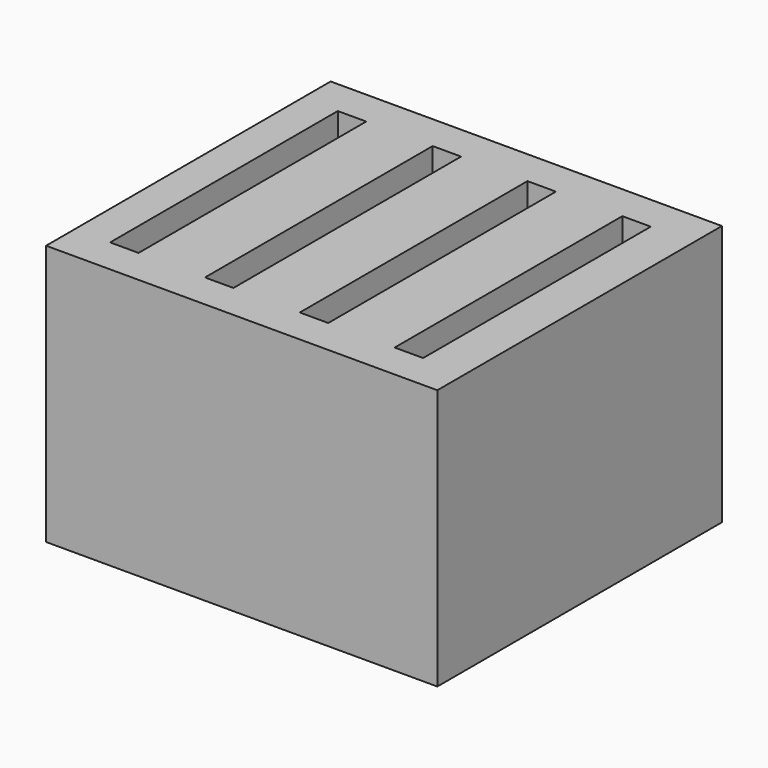
from build123d import *

# Parameters (mm, degrees)
BOX004_W     = 2.4
BOX004_H     = 24
BOX004_DEPTH = 22
BOX002_W     = 2.4
BOX002_H     = 24
BOX002_DEPTH = 22
BOX001_W     = 2.4
BOX001_H     = 24
BOX001_DEPTH = 22
BOX003_W     = 2.4
BOX003_H     = 24
BOX003_DEPTH = 22
BOX_W        = 33
BOX_H        = 30
BOX_DEPTH    = 22


with BuildPart() as cub004:
    # Box004 → Box004 (new body)
    with BuildSketch(Plane(origin=(24, 0, 0), x_dir=(1, 0, 0), z_dir=(0, 0, 1))):
        with Locations((1.2, 12)):
            Rectangle(BOX004_W, BOX004_H)
    extrude(amount=BOX004_DEPTH)


with BuildPart() as cub002:
    # Box002 → Box002 (new body)
    with BuildSketch(Plane(origin=(8, 0, 0), x_dir=(1, 0, 0), z_dir=(0, 0, 1))):
        with Locations((1.2, 12)):
            Rectangle(BOX002_W, BOX002_H)
    extrude(amount=BOX002_DEPTH)


with BuildPart() as fusion:
    # Box001 → Box001 (new body)
    with BuildSketch(Plane.XY):
        with Locations((1.2, 12)):
            Rectangle(BOX001_W, BOX001_H)
    extrude(amount=BOX001_DEPTH)

    # Fusion: union Cub002
    add(cub002.part)


with BuildPart() as fusion001:
    # Box003 → Box003 (new body)
    with BuildSketch(Plane(origin=(16, 0, 0), x_dir=(1, 0, 0), z_dir=(0, 0, 1))):
        with Locations((1.2, 12)):
            Rectangle(BOX003_W, BOX003_H)
    extrude(amount=BOX003_DEPTH)

    # Fusion001: union Cub004, Fusion
    add(cub004.part)
    add(fusion.part)


with BuildPart() as cut:
    # Box → Box (new body)
    with BuildSketch(Plane(origin=(-3, -3, 0), x_dir=(1, 0, 0), z_dir=(0, 0, 1))):
        with Locations((16.5, 15)):
            Rectangle(BOX_W, BOX_H)
    extrude(amount=BOX_DEPTH)

    # Cut: cut Fusion001
    add(fusion001.part, mode=Mode.SUBTRACT)


solid = cut.part
